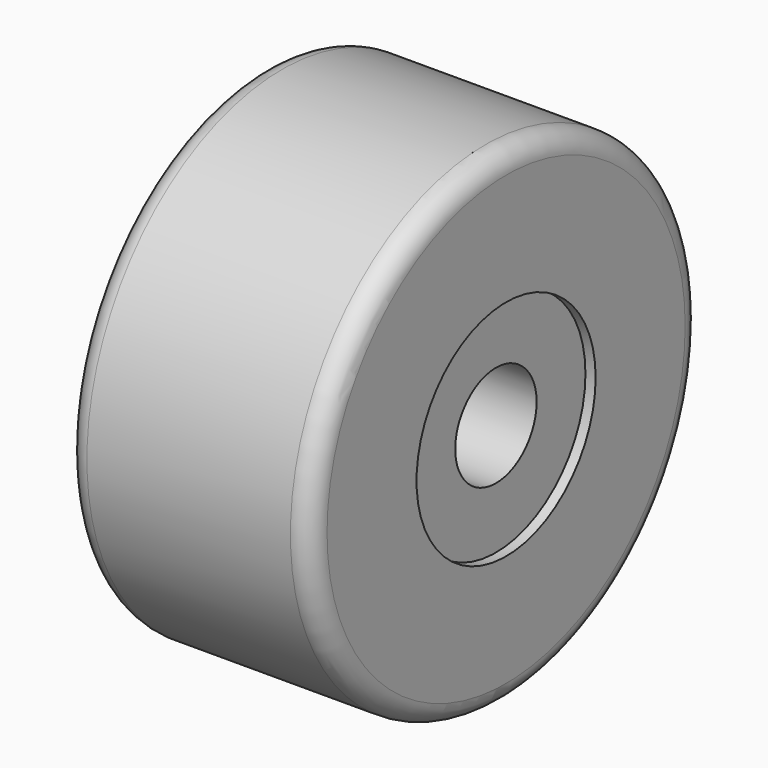
from build123d import *


with BuildPart() as f1:
    # F0 (on Top) → F1 (revolve)
    with BuildSketch(Plane.XY):
        with BuildLine():
            Line((0, 11), (0, 5.5))
            Line((0, 5.5), (0.5, 5.5))
            Line((0.5, 5.5), (0.5, 2.5))
            Line((0.5, 2.5), (11.5, 2.5))
            Line((11.5, 2.5), (11.5, 5.5))
            Line((11.5, 5.5), (12, 5.5))
            Line((12, 5.5), (12, 11))
            ThreePointArc((12, 11), (11.707107, 11.707107), (11, 12))
            Line((11, 12), (1, 12))
            ThreePointArc((1, 12), (0.292893, 11.707107), (0, 11))
        make_face()
    revolve(axis=Axis((6, 0, 0), (1, 0, 0)))


solid = f1.part
